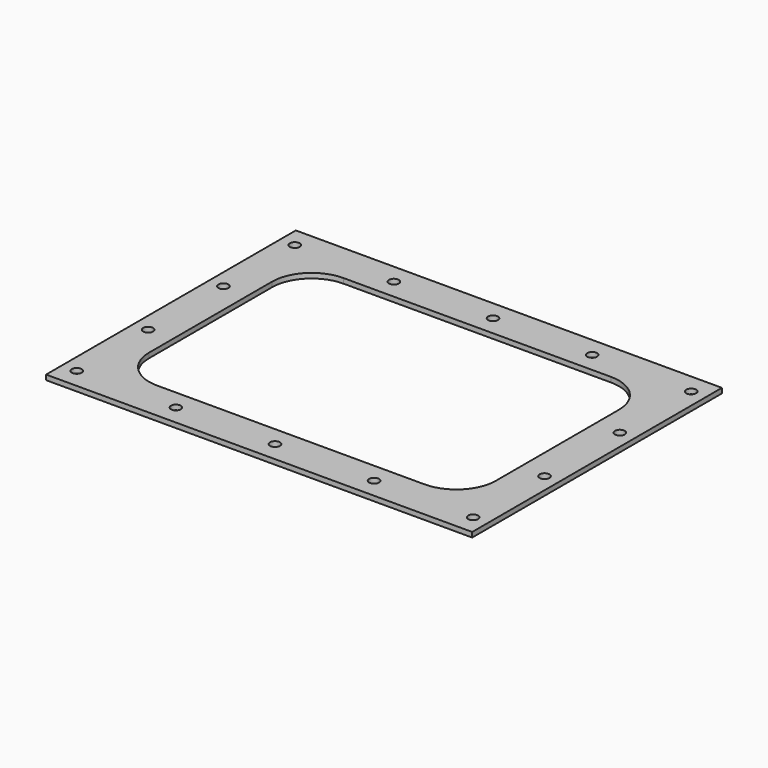
from build123d import *

# Parameters (mm, degrees)
F0_W      = 546.1
F0_H      = 400.05
F0_R      = 6.35
F1_DEPTH  = 3.175
F1_FACE_W = 546.1
F1_FACE_H = 400.05
F1_FACE_R = 6.35
F2_DEPTH  = 3.175


with BuildPart() as f1:
    # F0 (on Top) → F1 (new body)
    with BuildSketch(Plane.XY):
        with Locations((273.05, 200.025)):
            Rectangle(F0_W, F0_H)
        with Locations((19.05, 25.4)):
            Circle(F0_R, mode=Mode.SUBTRACT)
        with Locations((146.05, 25.4)):
            Circle(F0_R, mode=Mode.SUBTRACT)
        with Locations((19.05, 139.7)):
            Circle(F0_R, mode=Mode.SUBTRACT)
        with Locations((273.05, 25.4)):
            Circle(F0_R, mode=Mode.SUBTRACT)
        with Locations((400.05, 25.4)):
            Circle(F0_R, mode=Mode.SUBTRACT)
        with Locations((527.05, 25.4)):
            Circle(F0_R, mode=Mode.SUBTRACT)
        with BuildLine():
            Line((444.5, 50.8), (101.6, 50.8))
            ThreePointArc((101.6, 50.8), (65.678976, 65.678976), (50.8, 101.6))
            Line((50.8, 101.6), (50.8, 298.45))
            ThreePointArc((50.8, 298.45), (65.678976, 334.371024), (101.6, 349.25))
            Line((101.6, 349.25), (444.5, 349.25))
            ThreePointArc((444.5, 349.25), (480.421024, 334.371024), (495.3, 298.45))
            Line((495.3, 298.45), (495.3, 101.6))
            ThreePointArc((495.3, 101.6), (480.421024, 65.678976), (444.5, 50.8))
        make_face(mode=Mode.SUBTRACT)
        with Locations((527.05, 139.7)):
            Circle(F0_R, mode=Mode.SUBTRACT)
        with Locations((19.05, 260.35)):
            Circle(F0_R, mode=Mode.SUBTRACT)
        with Locations((19.05, 374.65)):
            Circle(F0_R, mode=Mode.SUBTRACT)
        with Locations((146.05, 374.65)):
            Circle(F0_R, mode=Mode.SUBTRACT)
        with Locations((527.05, 260.35)):
            Circle(F0_R, mode=Mode.SUBTRACT)
        with Locations((273.05, 374.65)):
            Circle(F0_R, mode=Mode.SUBTRACT)
        with Locations((400.05, 374.65)):
            Circle(F0_R, mode=Mode.SUBTRACT)
        with Locations((527.05, 374.65)):
            Circle(F0_R, mode=Mode.SUBTRACT)
    extrude(amount=F1_DEPTH)

    # F0 (on Top) + F1_face (on face) → F2 (join)
    with BuildSketch(Plane.XY):
        with Locations((273.05, 200.025)):
            Rectangle(F0_W, F0_H)
        with Locations((19.05, 25.4)):
            Circle(F0_R, mode=Mode.SUBTRACT)
        with Locations((146.05, 25.4)):
            Circle(F0_R, mode=Mode.SUBTRACT)
        with Locations((19.05, 139.7)):
            Circle(F0_R, mode=Mode.SUBTRACT)
        with Locations((273.05, 25.4)):
            Circle(F0_R, mode=Mode.SUBTRACT)
        with Locations((400.05, 25.4)):
            Circle(F0_R, mode=Mode.SUBTRACT)
        with Locations((527.05, 25.4)):
            Circle(F0_R, mode=Mode.SUBTRACT)
        with BuildLine():
            Line((444.5, 50.8), (101.6, 50.8))
            ThreePointArc((101.6, 50.8), (65.678976, 65.678976), (50.8, 101.6))
            Line((50.8, 101.6), (50.8, 298.45))
            ThreePointArc((50.8, 298.45), (65.678976, 334.371024), (101.6, 349.25))
            Line((101.6, 349.25), (444.5, 349.25))
            ThreePointArc((444.5, 349.25), (480.421024, 334.371024), (495.3, 298.45))
            Line((495.3, 298.45), (495.3, 101.6))
            ThreePointArc((495.3, 101.6), (480.421024, 65.678976), (444.5, 50.8))
        make_face(mode=Mode.SUBTRACT)
        with Locations((527.05, 139.7)):
            Circle(F0_R, mode=Mode.SUBTRACT)
        with Locations((19.05, 260.35)):
            Circle(F0_R, mode=Mode.SUBTRACT)
        with Locations((19.05, 374.65)):
            Circle(F0_R, mode=Mode.SUBTRACT)
        with Locations((146.05, 374.65)):
            Circle(F0_R, mode=Mode.SUBTRACT)
        with Locations((527.05, 260.35)):
            Circle(F0_R, mode=Mode.SUBTRACT)
        with Locations((273.05, 374.65)):
            Circle(F0_R, mode=Mode.SUBTRACT)
        with Locations((400.05, 374.65)):
            Circle(F0_R, mode=Mode.SUBTRACT)
        with Locations((527.05, 374.65)):
            Circle(F0_R, mode=Mode.SUBTRACT)
    with BuildSketch(Plane(origin=(273.05, 200.025, 3.175), x_dir=(1, 0, 0), z_dir=(0, 0, 1))):
        Rectangle(F1_FACE_W, F1_FACE_H)
        with Locations((-254, -174.625)):
            Circle(F1_FACE_R, mode=Mode.SUBTRACT)
        with Locations((-127, -174.625)):
            Circle(F1_FACE_R, mode=Mode.SUBTRACT)
        with Locations((-254, -60.325)):
            Circle(F1_FACE_R, mode=Mode.SUBTRACT)
        with Locations((0, -174.625)):
            Circle(F1_FACE_R, mode=Mode.SUBTRACT)
        with Locations((127, -174.625)):
            Circle(F1_FACE_R, mode=Mode.SUBTRACT)
        with Locations((254, -174.625)):
            Circle(F1_FACE_R, mode=Mode.SUBTRACT)
        with BuildLine():
            Line((171.45, -149.225), (-171.45, -149.225))
            ThreePointArc((-171.45, -149.225), (-207.371024, -134.346024), (-222.25, -98.425))
            Line((-222.25, -98.425), (-222.25, 98.425))
            ThreePointArc((-222.25, 98.425), (-207.371024, 134.346024), (-171.45, 149.225))
            Line((-171.45, 149.225), (171.45, 149.225))
            ThreePointArc((171.45, 149.225), (207.371024, 134.346024), (222.25, 98.425))
            Line((222.25, 98.425), (222.25, -98.425))
            ThreePointArc((222.25, -98.425), (207.371024, -134.346024), (171.45, -149.225))
        make_face(mode=Mode.SUBTRACT)
        with Locations((254, -60.325)):
            Circle(F1_FACE_R, mode=Mode.SUBTRACT)
        with Locations((-254, 60.325)):
            Circle(F1_FACE_R, mode=Mode.SUBTRACT)
        with Locations((-254, 174.625)):
            Circle(F1_FACE_R, mode=Mode.SUBTRACT)
        with Locations((-127, 174.625)):
            Circle(F1_FACE_R, mode=Mode.SUBTRACT)
        with Locations((254, 60.325)):
            Circle(F1_FACE_R, mode=Mode.SUBTRACT)
        with Locations((0, 174.625)):
            Circle(F1_FACE_R, mode=Mode.SUBTRACT)
        with Locations((127, 174.625)):
            Circle(F1_FACE_R, mode=Mode.SUBTRACT)
        with Locations((254, 174.625)):
            Circle(F1_FACE_R, mode=Mode.SUBTRACT)
    extrude(amount=F2_DEPTH)


solid = f1.part
